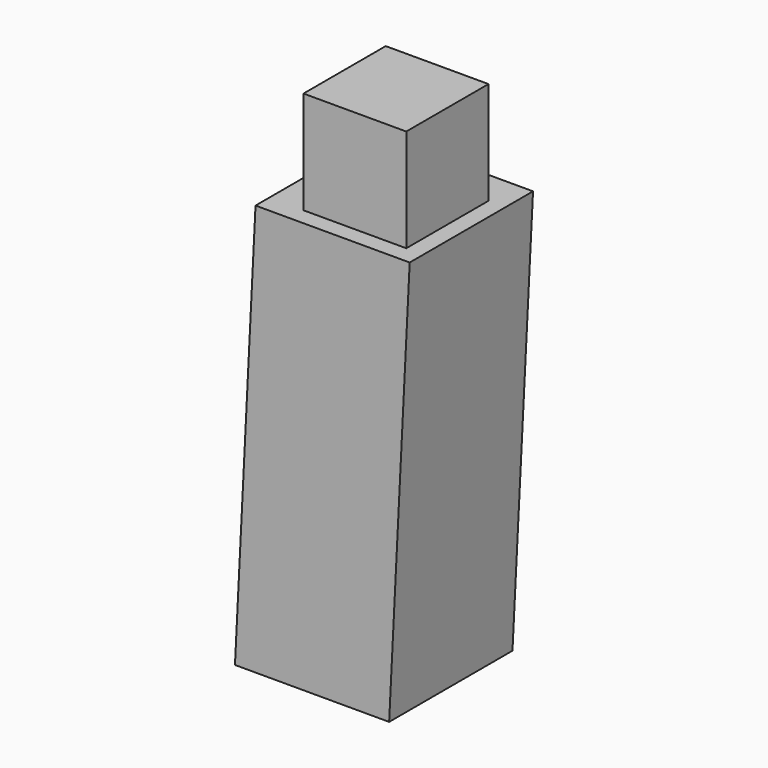
from build123d import *

# Parameters (mm, degrees)
F0_W     = 28.575
F0_H     = 28.575
F3_W     = 19.05
F3_H     = 19.05
F4_DEPTH = 19.05


with BuildPart() as f2:
    # F2: sweep along a path in F1
    with BuildLine(Plane.XZ) as f2_path:
        Line((0, 0), (3.81, 76.2))
    # F0 (on Top) → F2 (sweep)
    with BuildSketch(Plane.XY):
        Rectangle(F0_W, F0_H)
    sweep(path=f2_path.line)

    # F3 (on face) → F4 (join)
    with BuildSketch(Plane.XY.offset(76.2)):
        with Locations((5.3975, -1.5875)):
            Rectangle(F3_W, F3_H)
    extrude(amount=F4_DEPTH)


solid = f2.part
